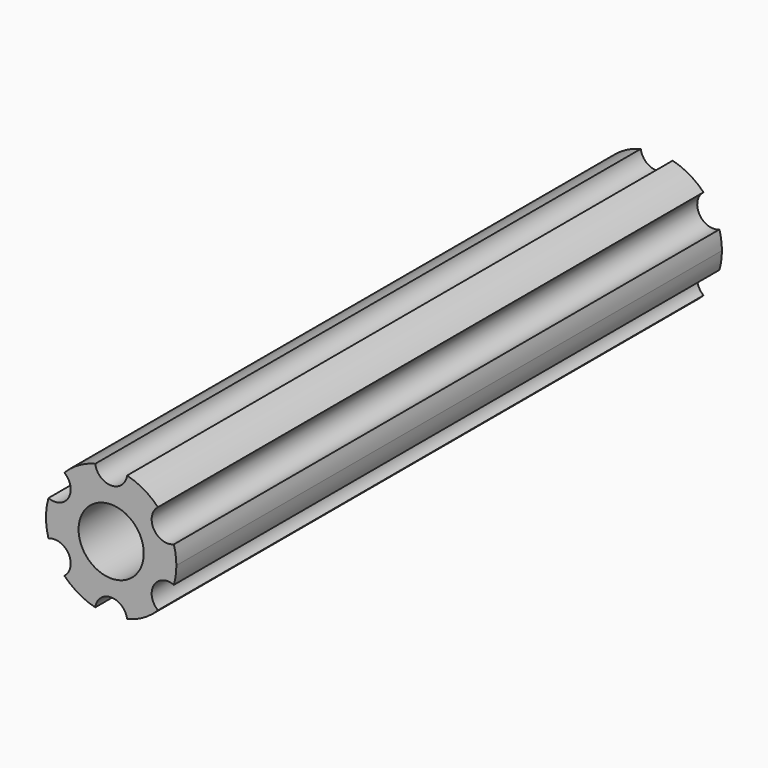
from build123d import *

# Parameters (mm, degrees)
F0_R     = 3.25
F1_DEPTH = 68


with BuildPart() as f1:
    # F0 (on Front) → F1 (new body)
    with BuildSketch(Plane.XZ):
        with BuildLine():
            ThreePointArc((6.252197, -1.777646), (6.437751, -0.897417), (6.5, 0))
            ThreePointArc((6.5, 0), (6.437751, 0.897417), (6.252197, 1.777646))
            ThreePointArc((6.252197, 1.777646), (4.252128, 2.454967), (4.665586, 4.525739))
            ThreePointArc((4.665586, 4.525739), (3.25, 5.629165), (1.586612, 6.303385))
            ThreePointArc((1.586612, 6.303385), (0, 4.909935), (-1.586612, 6.303385))
            ThreePointArc((-1.586612, 6.303385), (-3.25, 5.629165), (-4.665586, 4.525739))
            ThreePointArc((-4.665586, 4.525739), (-4.203284, 3.963666), (-4.037769, 3.254967))
            ThreePointArc((-4.037769, 3.254967), (-4.749818, 1.923974), (-6.252197, 1.777646))
            ThreePointArc((-6.252197, 1.777646), (-6.5, 0), (-6.252197, -1.777646))
            ThreePointArc((-6.252197, -1.777646), (-4.749818, -1.923974), (-4.037769, -3.254967))
            ThreePointArc((-4.037769, -3.254967), (-4.203284, -3.963666), (-4.665586, -4.525739))
            ThreePointArc((-4.665586, -4.525739), (-3.25, -5.629165), (-1.586612, -6.303385))
            ThreePointArc((-1.586612, -6.303385), (0, -4.909935), (1.586612, -6.303385))
            ThreePointArc((1.586612, -6.303385), (3.25, -5.629165), (4.665586, -4.525739))
            ThreePointArc((4.665586, -4.525739), (4.252128, -2.454967), (6.252197, -1.777646))
        make_face()
        Circle(F0_R, mode=Mode.SUBTRACT)
    extrude(amount=F1_DEPTH)


solid = f1.part
